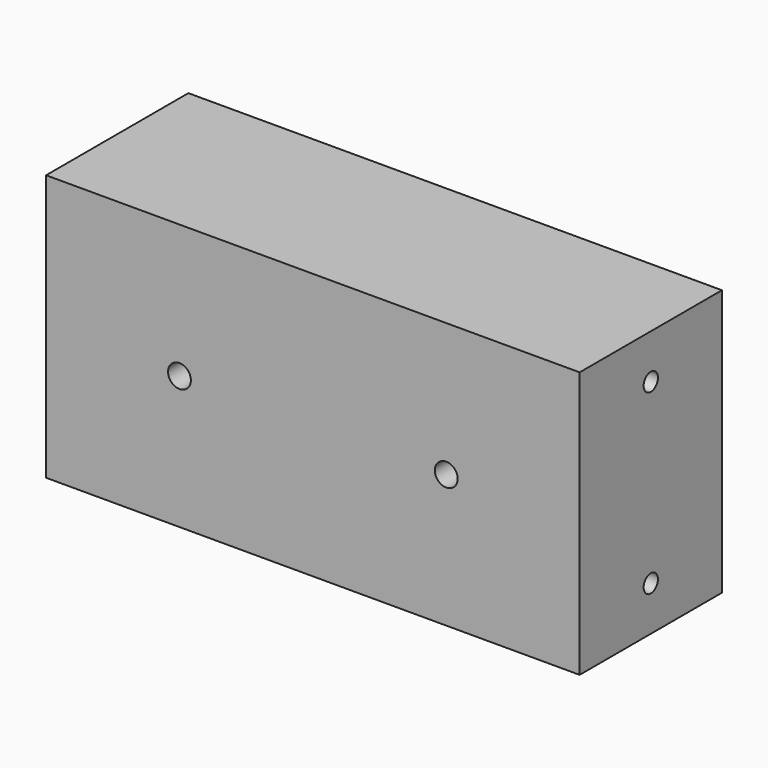
from build123d import *

# Parameters (mm, degrees)
F0_W     = 152.4
F0_H     = 76.073
F1_DEPTH = 50.8
F3_D     = 5.1054
F3_DEPTH = 16.51
F3_TIP   = 1.5338169022
F5_D     = 5.1054
F5_DEPTH = 16.51
F5_TIP   = 1.5338169022
F7_D     = 6.5278
F7_DEPTH = 16.9333333333
F7_TIP   = 1.9611489744


with BuildPart() as f1:
    # F0 (on Front) → F1 (new body)
    with BuildSketch(Plane.XZ):
        with Locations((-0.1111254096, 31.3906762446)):
            Rectangle(F0_W, F0_H)
    extrude(amount=F1_DEPTH)

    # F3
    with Locations(Plane(origin=(-76.3111254096, 0, 0), x_dir=(0, -1, 0), z_dir=(-1, 0, 0))):
        with Locations((25.4, 56.7271762446), (25.4, 5.9271762446)):
            Hole(F3_D / 2, depth=F3_DEPTH)
            with Locations((0, 0, -(F3_DEPTH + F3_TIP / 2))):  # 118° drill point
                Cone(0, F3_D / 2, F3_TIP, mode=Mode.SUBTRACT)

    # F5
    with Locations(Plane.YZ.offset(76.0888745904)):
        with Locations((-25.4, 56.7271762446), (-25.4, 6.0541762446)):
            Hole(F5_D / 2, depth=F5_DEPTH)
            with Locations((0, 0, -(F5_DEPTH + F5_TIP / 2))):  # 118° drill point
                Cone(0, F5_D / 2, F5_TIP, mode=Mode.SUBTRACT)

    # F7
    with Locations(Plane.XZ.offset(50.8)):
        with Locations((-38.2111254096, 31.3271762446), (37.9888745904, 31.3271762446)):
            Hole(F7_D / 2, depth=F7_DEPTH)
            with Locations((0, 0, -(F7_DEPTH + F7_TIP / 2))):  # 118° drill point
                Cone(0, F7_D / 2, F7_TIP, mode=Mode.SUBTRACT)


solid = f1.part
